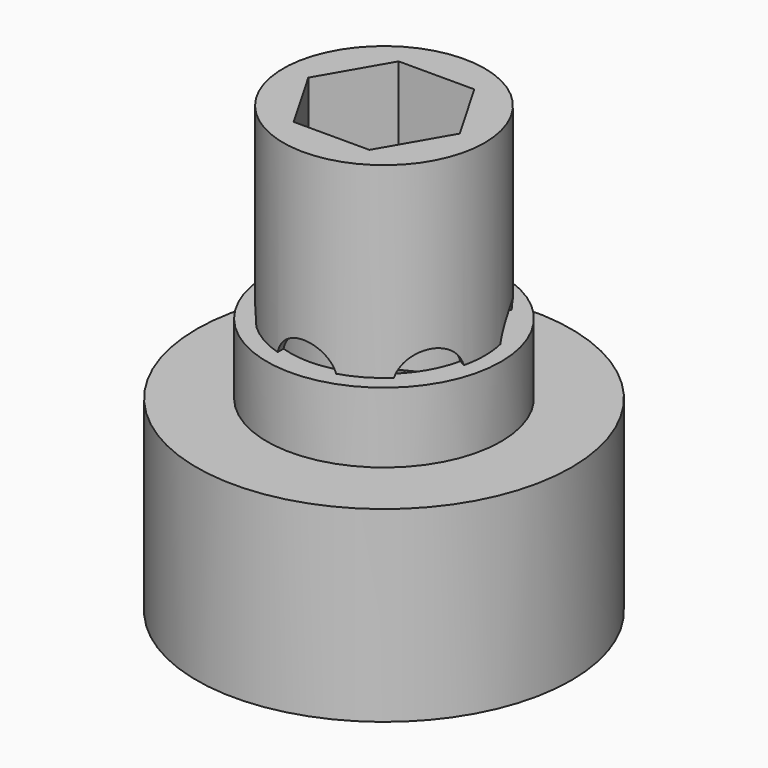
from build123d import *

# Parameters (mm, degrees)
SKETCH001_R           = 8
PAD001_DEPTH          = 8
SKETCH002_R           = 5
PAD002_DEPTH          = 3
SKETCH004_R           = 4
HOLE001_DEPTH         = 5
SKETCH013_R           = 4
PAD008_DEPTH          = 1
SKETCH014_R           = 4.3
PAD009_DEPTH          = 8
POCKET005_DEPTH       = 9
POCKET007_DEPTH       = 7
POCKET_DEPTH          = 6
POLARPATTERN001_COUNT = 6
SKETCH056_R           = 4
POCKET025_DEPTH       = 2


with BuildPart() as part:
    # Sketch001 → Pad001 (new body)
    with BuildSketch(Plane.XY):
        Circle(SKETCH001_R)
    extrude(amount=PAD001_DEPTH)

    # Sketch002 (on Face3 of Pad001) → Pad002 (join)
    with BuildSketch(Plane.XY.offset(8)):
        Circle(SKETCH002_R)
    extrude(amount=PAD002_DEPTH)

    # Sketch004 (on Face5 of Pad002) → Hole001 (cut)
    with BuildSketch(Plane.XY.offset(11)):
        Circle(SKETCH004_R)
    extrude(amount=-HOLE001_DEPTH, mode=Mode.SUBTRACT)

    # Sketch013 (on DatumPlane) → Pad008 (join)
    with BuildSketch(Plane.XY.offset(11)):
        Circle(SKETCH013_R)
    extrude(amount=-PAD008_DEPTH)

    # Sketch014 (on DatumPlane) → Pad009 (join)
    with BuildSketch(Plane.XY.offset(11)):
        Circle(SKETCH014_R)
    extrude(amount=PAD009_DEPTH)

    # Sketch015 (on Face7 of Pad009) → Pocket005 (cut)
    with BuildSketch(Plane.XY.offset(19)):
        Polygon((-1.616581, -2.8), (1.616581, -2.8), (3.233162, 0), (1.616581, 2.8), (-1.616581, 2.8), (-3.233162, 0), align=None)
    extrude(amount=-POCKET005_DEPTH, mode=Mode.SUBTRACT)

    # InvoluteGear005 → Pocket007 (cut)
    with BuildSketch(Plane.XY):
        with BuildLine():
            Line((5.33649, -0.681966), (5.756201, -0.734905))
            add(Edge.make_bspline(
                [(5.756201, -0.734905), (5.793808, -0.737048), (5.906816, -0.738275), (6.096214, -0.695713)],
                knots=[0, 0, 0, 0, 1, 1, 1, 1], degree=3))
            add(Edge.make_bspline(
                [(6.096214, -0.695713), (6.322066, -0.643854), (6.644849, -0.530157), (7.035393, -0.283695)],
                knots=[0, 0, 0, 0, 1, 1, 1, 1], degree=3))
            ThreePointArc((7.035393, -0.283695), (7.041111, 0), (7.035393, 0.283695))
            add(Edge.make_bspline(
                [(7.035393, 0.283695), (6.644849, 0.530157), (6.322066, 0.643854), (6.096214, 0.695713)],
                knots=[0, 0, 0, 0, 1, 1, 1, 1], degree=3))
            add(Edge.make_bspline(
                [(6.096214, 0.695713), (5.906816, 0.738275), (5.793808, 0.737048), (5.756201, 0.734905)],
                knots=[0, 0, 0, 0, 1, 1, 1, 1], degree=3))
            Line((5.756201, 0.734905), (5.33649, 0.681966))
            ThreePointArc((5.33649, 0.681966), (5.101099, 0.742031), (4.970604, 0.94694))
            ThreePointArc((4.970604, 0.94694), (4.933135, 1.125956), (4.889221, 1.303501))
            ThreePointArc((4.889221, 1.303501), (4.917886, 1.544737), (5.103905, 1.700986))
            Line((5.103905, 1.700986), (5.505021, 1.835396))
            add(Edge.make_bspline(
                [(5.505021, 1.835396), (5.539834, 1.849782), (5.642183, 1.897708), (5.794358, 2.018232)],
                knots=[0, 0, 0, 0, 1, 1, 1, 1], degree=3))
            add(Edge.make_bspline(
                [(5.794358, 2.018232), (5.975343, 2.162949), (6.216829, 2.405437), (6.46176, 2.796943)],
                knots=[0, 0, 0, 0, 1, 1, 1, 1], degree=3))
            ThreePointArc((6.46176, 2.796943), (6.343822, 3.055024), (6.215579, 3.308142))
            add(Edge.make_bspline(
                [(6.215579, 3.308142), (5.756776, 3.360747), (5.416627, 3.323134), (5.190641, 3.271864)],
                knots=[0, 0, 0, 0, 1, 1, 1, 1], degree=3))
            add(Edge.make_bspline(
                [(5.190641, 3.271864), (5.001532, 3.228034), (4.900248, 3.177897), (4.867295, 3.159648)],
                knots=[0, 0, 0, 0, 1, 1, 1, 1], degree=3))
            Line((4.867295, 3.159648), (4.512117, 2.929846))
            ThreePointArc((4.512117, 2.929846), (4.273976, 2.881831), (4.067497, 3.009828))
            ThreePointArc((4.067497, 3.009828), (3.956067, 3.154858), (3.839469, 3.295767))
            ThreePointArc((3.839469, 3.295767), (3.760626, 3.525551), (3.86043, 3.747037))
            Line((3.86043, 3.747037), (4.163504, 4.042174))
            add(Edge.make_bspline(
                [(4.163504, 4.042174), (4.188628, 4.07024), (4.260046, 4.157828), (4.344858, 4.332442)],
                knots=[0, 0, 0, 0, 1, 1, 1, 1], degree=3))
            add(Edge.make_bspline(
                [(4.344858, 4.332442), (4.445129, 4.541354), (4.557489, 4.864605), (4.608297, 5.323611)],
                knots=[0, 0, 0, 0, 1, 1, 1, 1], degree=3))
            ThreePointArc((4.608297, 5.323611), (4.390061, 5.504962), (4.164694, 5.677372))
            add(Edge.make_bspline(
                [(4.164694, 5.677372), (3.728502, 5.5257), (3.438358, 5.344227), (3.256997, 5.199982)],
                knots=[0, 0, 0, 0, 1, 1, 1, 1], degree=3))
            add(Edge.make_bspline(
                [(3.256997, 5.199982), (3.105633, 5.078442), (3.036133, 4.989324), (3.014361, 4.958585)],
                knots=[0, 0, 0, 0, 1, 1, 1, 1], degree=3))
            Line((3.014361, 4.958585), (2.794064, 4.597435))
            ThreePointArc((2.794064, 4.597435), (2.60034, 4.450848), (2.358773, 4.476582))
            ThreePointArc((2.358773, 4.476582), (2.195452, 4.558902), (2.029262, 4.635267))
            ThreePointArc((2.029262, 4.635267), (1.858528, 4.808086), (1.852349, 5.050941))
            Line((1.852349, 5.050941), (1.997354, 5.448349))
            add(Edge.make_bspline(
                [(1.997354, 5.448349), (2.007813, 5.484537), (2.034155, 5.594438), (2.034806, 5.788559)],
                knots=[0, 0, 0, 0, 1, 1, 1, 1], degree=3))
            add(Edge.make_bspline(
                [(2.034806, 5.788559), (2.034504, 6.020287), (1.995483, 6.360278), (1.842104, 6.795873)],
                knots=[0, 0, 0, 0, 1, 1, 1, 1], degree=3))
            ThreePointArc((1.842104, 6.795873), (1.566795, 6.864576), (1.28894, 6.922129))
            add(Edge.make_bspline(
                [(1.28894, 6.922129), (0.961753, 6.59622), (0.77908, 6.30683), (0.678265, 6.09818)],
                knots=[0, 0, 0, 0, 1, 1, 1, 1], degree=3))
            add(Edge.make_bspline(
                [(0.678265, 6.09818), (0.594625, 5.923001), (0.570675, 5.812554), (0.564396, 5.775413)],
                knots=[0, 0, 0, 0, 1, 1, 1, 1], degree=3))
            Line((0.564396, 5.775413), (0.522613, 5.354445))
            ThreePointArc((0.522613, 5.354445), (0.411675, 5.138321), (0.182865, 5.056695))
            ThreePointArc((0.182865, 5.056695), (0, 5.06), (-0.182865, 5.056695))
            ThreePointArc((-0.182865, 5.056695), (-0.411675, 5.138321), (-0.522613, 5.354445))
            Line((-0.522613, 5.354445), (-0.564396, 5.775413))
            add(Edge.make_bspline(
                [(-0.564396, 5.775413), (-0.570675, 5.812554), (-0.594625, 5.923001), (-0.678265, 6.09818)],
                knots=[0, 0, 0, 0, 1, 1, 1, 1], degree=3))
            add(Edge.make_bspline(
                [(-0.678265, 6.09818), (-0.77908, 6.30683), (-0.961753, 6.59622), (-1.28894, 6.922129)],
                knots=[0, 0, 0, 0, 1, 1, 1, 1], degree=3))
            ThreePointArc((-1.28894, 6.922129), (-1.566795, 6.864576), (-1.842104, 6.795873))
            add(Edge.make_bspline(
                [(-1.842104, 6.795873), (-1.995483, 6.360278), (-2.034504, 6.020287), (-2.034806, 5.788559)],
                knots=[0, 0, 0, 0, 1, 1, 1, 1], degree=3))
            add(Edge.make_bspline(
                [(-2.034806, 5.788559), (-2.034155, 5.594438), (-2.007813, 5.484537), (-1.997354, 5.448349)],
                knots=[0, 0, 0, 0, 1, 1, 1, 1], degree=3))
            Line((-1.997354, 5.448349), (-1.852349, 5.050941))
            ThreePointArc((-1.852349, 5.050941), (-1.858528, 4.808086), (-2.029262, 4.635267))
            ThreePointArc((-2.029262, 4.635267), (-2.195452, 4.558902), (-2.358773, 4.476582))
            ThreePointArc((-2.358773, 4.476582), (-2.60034, 4.450848), (-2.794064, 4.597435))
            Line((-2.794064, 4.597435), (-3.014361, 4.958585))
            add(Edge.make_bspline(
                [(-3.014361, 4.958585), (-3.036133, 4.989324), (-3.105633, 5.078442), (-3.256997, 5.199982)],
                knots=[0, 0, 0, 0, 1, 1, 1, 1], degree=3))
            add(Edge.make_bspline(
                [(-3.256997, 5.199982), (-3.438358, 5.344227), (-3.728502, 5.5257), (-4.164694, 5.677372)],
                knots=[0, 0, 0, 0, 1, 1, 1, 1], degree=3))
            ThreePointArc((-4.164694, 5.677372), (-4.390061, 5.504962), (-4.608297, 5.323611))
            add(Edge.make_bspline(
                [(-4.608297, 5.323611), (-4.557489, 4.864605), (-4.445129, 4.541354), (-4.344858, 4.332442)],
                knots=[0, 0, 0, 0, 1, 1, 1, 1], degree=3))
            add(Edge.make_bspline(
                [(-4.344858, 4.332442), (-4.260046, 4.157828), (-4.188628, 4.07024), (-4.163504, 4.042174)],
                knots=[0, 0, 0, 0, 1, 1, 1, 1], degree=3))
            Line((-4.163504, 4.042174), (-3.86043, 3.747037))
            ThreePointArc((-3.86043, 3.747037), (-3.760626, 3.525551), (-3.839469, 3.295767))
            ThreePointArc((-3.839469, 3.295767), (-3.956067, 3.154858), (-4.067497, 3.009828))
            ThreePointArc((-4.067497, 3.009828), (-4.273976, 2.881831), (-4.512117, 2.929846))
            Line((-4.512117, 2.929846), (-4.867295, 3.159648))
            add(Edge.make_bspline(
                [(-4.867295, 3.159648), (-4.900248, 3.177897), (-5.001532, 3.228034), (-5.190641, 3.271864)],
                knots=[0, 0, 0, 0, 1, 1, 1, 1], degree=3))
            add(Edge.make_bspline(
                [(-5.190641, 3.271864), (-5.416627, 3.323134), (-5.756776, 3.360747), (-6.215579, 3.308142)],
                knots=[0, 0, 0, 0, 1, 1, 1, 1], degree=3))
            ThreePointArc((-6.215579, 3.308142), (-6.343822, 3.055024), (-6.46176, 2.796943))
            add(Edge.make_bspline(
                [(-6.46176, 2.796943), (-6.216829, 2.405437), (-5.975343, 2.162949), (-5.794358, 2.018232)],
                knots=[0, 0, 0, 0, 1, 1, 1, 1], degree=3))
            add(Edge.make_bspline(
                [(-5.794358, 2.018232), (-5.642183, 1.897708), (-5.539834, 1.849782), (-5.505021, 1.835396)],
                knots=[0, 0, 0, 0, 1, 1, 1, 1], degree=3))
            Line((-5.505021, 1.835396), (-5.103905, 1.700986))
            ThreePointArc((-5.103905, 1.700986), (-4.917886, 1.544737), (-4.889221, 1.303501))
            ThreePointArc((-4.889221, 1.303501), (-4.933135, 1.125956), (-4.970604, 0.94694))
            ThreePointArc((-4.970604, 0.94694), (-5.101099, 0.742031), (-5.33649, 0.681966))
            Line((-5.33649, 0.681966), (-5.756201, 0.734905))
            add(Edge.make_bspline(
                [(-5.756201, 0.734905), (-5.793808, 0.737048), (-5.906816, 0.738275), (-6.096214, 0.695713)],
                knots=[0, 0, 0, 0, 1, 1, 1, 1], degree=3))
            add(Edge.make_bspline(
                [(-6.096214, 0.695713), (-6.322066, 0.643854), (-6.644849, 0.530157), (-7.035393, 0.283695)],
                knots=[0, 0, 0, 0, 1, 1, 1, 1], degree=3))
            ThreePointArc((-7.035393, 0.283695), (-7.041111, 0), (-7.035393, -0.283695))
            add(Edge.make_bspline(
                [(-7.035393, -0.283695), (-6.644849, -0.530157), (-6.322066, -0.643854), (-6.096214, -0.695713)],
                knots=[0, 0, 0, 0, 1, 1, 1, 1], degree=3))
            add(Edge.make_bspline(
                [(-6.096214, -0.695713), (-5.906816, -0.738275), (-5.793808, -0.737048), (-5.756201, -0.734905)],
                knots=[0, 0, 0, 0, 1, 1, 1, 1], degree=3))
            Line((-5.756201, -0.734905), (-5.33649, -0.681966))
            ThreePointArc((-5.33649, -0.681966), (-5.101099, -0.742031), (-4.970604, -0.94694))
            ThreePointArc((-4.970604, -0.94694), (-4.933135, -1.125956), (-4.889221, -1.303501))
            ThreePointArc((-4.889221, -1.303501), (-4.917886, -1.544737), (-5.103905, -1.700986))
            Line((-5.103905, -1.700986), (-5.505021, -1.835396))
            add(Edge.make_bspline(
                [(-5.505021, -1.835396), (-5.539834, -1.849782), (-5.642183, -1.897708), (-5.794358, -2.018232)],
                knots=[0, 0, 0, 0, 1, 1, 1, 1], degree=3))
            add(Edge.make_bspline(
                [(-5.794358, -2.018232), (-5.975343, -2.162949), (-6.216829, -2.405437), (-6.46176, -2.796943)],
                knots=[0, 0, 0, 0, 1, 1, 1, 1], degree=3))
            ThreePointArc((-6.46176, -2.796943), (-6.343822, -3.055024), (-6.215579, -3.308142))
            add(Edge.make_bspline(
                [(-6.215579, -3.308142), (-5.756776, -3.360747), (-5.416627, -3.323134), (-5.190641, -3.271864)],
                knots=[0, 0, 0, 0, 1, 1, 1, 1], degree=3))
            add(Edge.make_bspline(
                [(-5.190641, -3.271864), (-5.001532, -3.228034), (-4.900248, -3.177897), (-4.867295, -3.159648)],
                knots=[0, 0, 0, 0, 1, 1, 1, 1], degree=3))
            Line((-4.867295, -3.159648), (-4.512117, -2.929846))
            ThreePointArc((-4.512117, -2.929846), (-4.273976, -2.881831), (-4.067497, -3.009828))
            ThreePointArc((-4.067497, -3.009828), (-3.956067, -3.154858), (-3.839469, -3.295767))
            ThreePointArc((-3.839469, -3.295767), (-3.760626, -3.525551), (-3.86043, -3.747037))
            Line((-3.86043, -3.747037), (-4.163504, -4.042174))
            add(Edge.make_bspline(
                [(-4.163504, -4.042174), (-4.188628, -4.07024), (-4.260046, -4.157828), (-4.344858, -4.332442)],
                knots=[0, 0, 0, 0, 1, 1, 1, 1], degree=3))
            add(Edge.make_bspline(
                [(-4.344858, -4.332442), (-4.445129, -4.541354), (-4.557489, -4.864605), (-4.608297, -5.323611)],
                knots=[0, 0, 0, 0, 1, 1, 1, 1], degree=3))
            ThreePointArc((-4.608297, -5.323611), (-4.390061, -5.504962), (-4.164694, -5.677372))
            add(Edge.make_bspline(
                [(-4.164694, -5.677372), (-3.728502, -5.5257), (-3.438358, -5.344227), (-3.256997, -5.199982)],
                knots=[0, 0, 0, 0, 1, 1, 1, 1], degree=3))
            add(Edge.make_bspline(
                [(-3.256997, -5.199982), (-3.105633, -5.078442), (-3.036133, -4.989324), (-3.014361, -4.958585)],
                knots=[0, 0, 0, 0, 1, 1, 1, 1], degree=3))
            Line((-3.014361, -4.958585), (-2.794064, -4.597435))
            ThreePointArc((-2.794064, -4.597435), (-2.60034, -4.450848), (-2.358773, -4.476582))
            ThreePointArc((-2.358773, -4.476582), (-2.195452, -4.558902), (-2.029262, -4.635267))
            ThreePointArc((-2.029262, -4.635267), (-1.858528, -4.808086), (-1.852349, -5.050941))
            Line((-1.852349, -5.050941), (-1.997354, -5.448349))
            add(Edge.make_bspline(
                [(-1.997354, -5.448349), (-2.007813, -5.484537), (-2.034155, -5.594438), (-2.034806, -5.788559)],
                knots=[0, 0, 0, 0, 1, 1, 1, 1], degree=3))
            add(Edge.make_bspline(
                [(-2.034806, -5.788559), (-2.034504, -6.020287), (-1.995483, -6.360278), (-1.842104, -6.795873)],
                knots=[0, 0, 0, 0, 1, 1, 1, 1], degree=3))
            ThreePointArc((-1.842104, -6.795873), (-1.566795, -6.864576), (-1.28894, -6.922129))
            add(Edge.make_bspline(
                [(-1.28894, -6.922129), (-0.961753, -6.59622), (-0.77908, -6.30683), (-0.678265, -6.09818)],
                knots=[0, 0, 0, 0, 1, 1, 1, 1], degree=3))
            add(Edge.make_bspline(
                [(-0.678265, -6.09818), (-0.594625, -5.923001), (-0.570675, -5.812554), (-0.564396, -5.775413)],
                knots=[0, 0, 0, 0, 1, 1, 1, 1], degree=3))
            Line((-0.564396, -5.775413), (-0.522613, -5.354445))
            ThreePointArc((-0.522613, -5.354445), (-0.411675, -5.138321), (-0.182865, -5.056695))
            ThreePointArc((-0.182865, -5.056695), (0, -5.06), (0.182865, -5.056695))
            ThreePointArc((0.182865, -5.056695), (0.411675, -5.138321), (0.522613, -5.354445))
            Line((0.522613, -5.354445), (0.564396, -5.775413))
            add(Edge.make_bspline(
                [(0.564396, -5.775413), (0.570675, -5.812554), (0.594625, -5.923001), (0.678265, -6.09818)],
                knots=[0, 0, 0, 0, 1, 1, 1, 1], degree=3))
            add(Edge.make_bspline(
                [(0.678265, -6.09818), (0.77908, -6.30683), (0.961753, -6.59622), (1.28894, -6.922129)],
                knots=[0, 0, 0, 0, 1, 1, 1, 1], degree=3))
            ThreePointArc((1.28894, -6.922129), (1.566795, -6.864576), (1.842104, -6.795873))
            add(Edge.make_bspline(
                [(1.842104, -6.795873), (1.995483, -6.360278), (2.034504, -6.020287), (2.034806, -5.788559)],
                knots=[0, 0, 0, 0, 1, 1, 1, 1], degree=3))
            add(Edge.make_bspline(
                [(2.034806, -5.788559), (2.034155, -5.594438), (2.007813, -5.484537), (1.997354, -5.448349)],
                knots=[0, 0, 0, 0, 1, 1, 1, 1], degree=3))
            Line((1.997354, -5.448349), (1.852349, -5.050941))
            ThreePointArc((1.852349, -5.050941), (1.858528, -4.808086), (2.029262, -4.635267))
            ThreePointArc((2.029262, -4.635267), (2.195452, -4.558902), (2.358773, -4.476582))
            ThreePointArc((2.358773, -4.476582), (2.60034, -4.450848), (2.794064, -4.597435))
            Line((2.794064, -4.597435), (3.014361, -4.958585))
            add(Edge.make_bspline(
                [(3.014361, -4.958585), (3.036133, -4.989324), (3.105633, -5.078442), (3.256997, -5.199982)],
                knots=[0, 0, 0, 0, 1, 1, 1, 1], degree=3))
            add(Edge.make_bspline(
                [(3.256997, -5.199982), (3.438358, -5.344227), (3.728502, -5.5257), (4.164694, -5.677372)],
                knots=[0, 0, 0, 0, 1, 1, 1, 1], degree=3))
            ThreePointArc((4.164694, -5.677372), (4.390061, -5.504962), (4.608297, -5.323611))
            add(Edge.make_bspline(
                [(4.608297, -5.323611), (4.557489, -4.864605), (4.445129, -4.541354), (4.344858, -4.332442)],
                knots=[0, 0, 0, 0, 1, 1, 1, 1], degree=3))
            add(Edge.make_bspline(
                [(4.344858, -4.332442), (4.260046, -4.157828), (4.188628, -4.07024), (4.163504, -4.042174)],
                knots=[0, 0, 0, 0, 1, 1, 1, 1], degree=3))
            Line((4.163504, -4.042174), (3.86043, -3.747037))
            ThreePointArc((3.86043, -3.747037), (3.760626, -3.525551), (3.839469, -3.295767))
            ThreePointArc((3.839469, -3.295767), (3.956067, -3.154858), (4.067497, -3.009828))
            ThreePointArc((4.067497, -3.009828), (4.273976, -2.881831), (4.512117, -2.929846))
            Line((4.512117, -2.929846), (4.867295, -3.159648))
            add(Edge.make_bspline(
                [(4.867295, -3.159648), (4.900248, -3.177897), (5.001532, -3.228034), (5.190641, -3.271864)],
                knots=[0, 0, 0, 0, 1, 1, 1, 1], degree=3))
            add(Edge.make_bspline(
                [(5.190641, -3.271864), (5.416627, -3.323134), (5.756776, -3.360747), (6.215579, -3.308142)],
                knots=[0, 0, 0, 0, 1, 1, 1, 1], degree=3))
            ThreePointArc((6.215579, -3.308142), (6.343822, -3.055024), (6.46176, -2.796943))
            add(Edge.make_bspline(
                [(6.46176, -2.796943), (6.216829, -2.405437), (5.975343, -2.162949), (5.794358, -2.018232)],
                knots=[0, 0, 0, 0, 1, 1, 1, 1], degree=3))
            add(Edge.make_bspline(
                [(5.794358, -2.018232), (5.642183, -1.897708), (5.539834, -1.849782), (5.505021, -1.835396)],
                knots=[0, 0, 0, 0, 1, 1, 1, 1], degree=3))
            Line((5.505021, -1.835396), (5.103905, -1.700986))
            ThreePointArc((5.103905, -1.700986), (4.917886, -1.544737), (4.889221, -1.303501))
            ThreePointArc((4.889221, -1.303501), (4.933135, -1.125956), (4.970604, -0.94694))
            ThreePointArc((4.970604, -0.94694), (5.101099, -0.742031), (5.33649, -0.681966))
        make_face()
    extrude(amount=POCKET007_DEPTH, mode=Mode.SUBTRACT)

    # Sketch034 (on DatumPlane) → Pocket (cut)
    with BuildSketch(Plane(origin=(0, 0, 19), x_dir=(1, 0, 0), z_dir=(0, -1, 0))):
        with BuildLine():
            Line((1.25, -8), (-1.25, -8))
            ThreePointArc((1.25, -8), (0, -7.057071), (-1.25, -8))
        make_face()
    pocket = extrude(amount=POCKET_DEPTH, mode=Mode.SUBTRACT)

    # PolarPattern001: Pocket ×6 about axis
    polarpattern001_axis = Axis((0, 0, 0), (0, 0, 1))
    for i in range(1, POLARPATTERN001_COUNT):
        add(pocket.rotate(polarpattern001_axis, i * 360 / POLARPATTERN001_COUNT), mode=Mode.SUBTRACT)

    # Sketch056 (on Face20 of PolarPattern001) → Pocket025 (cut)
    with BuildSketch(Plane(origin=(0, 0, 10), x_dir=(1, 0, 0), z_dir=(0, 0, -1))):
        Circle(SKETCH056_R)
    extrude(amount=-POCKET025_DEPTH, mode=Mode.SUBTRACT)


with BuildPart() as part_1:
    # Body001 placement: moved
    add(part.part.moved(Location((0, 0, 27))))


solid = part_1.part
